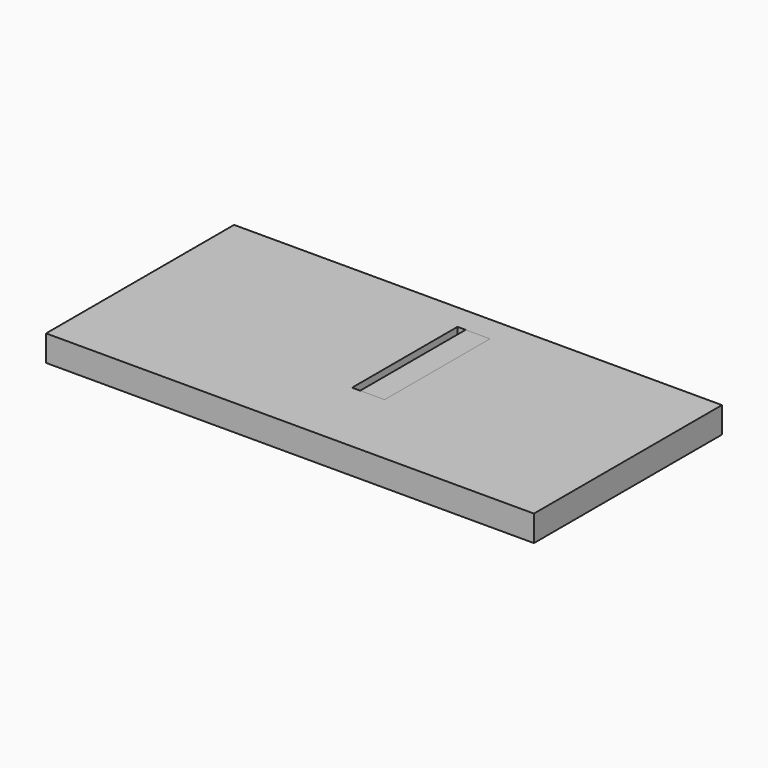
from build123d import *

# Parameters (mm, degrees)
F0_W     = 952.5
F0_H     = 458.7875
F0_W_2   = 63.5
F0_H_2   = 257.175
F1_DEPTH = 50.8
F2_W     = 47.625
F2_H     = 257.175
F3_DEPTH = 3.175


with BuildPart() as f1:
    # F0 (on Top) → F1 (new body)
    with BuildSketch(Plane.XY):
        Rectangle(F0_W, F0_H)
        with Locations((31.75, 50.64125)):
            Rectangle(F0_W_2, F0_H_2, mode=Mode.SUBTRACT)
    extrude(amount=-F1_DEPTH)


with BuildPart() as f3:
    # F2 (on face) → F3 (new body)
    with BuildSketch(Plane.XY):
        with Locations((39.6875, 50.64125)):
            Rectangle(F2_W, F2_H)
    extrude(amount=-F3_DEPTH)


solid = Compound([f1.part, f3.part])
